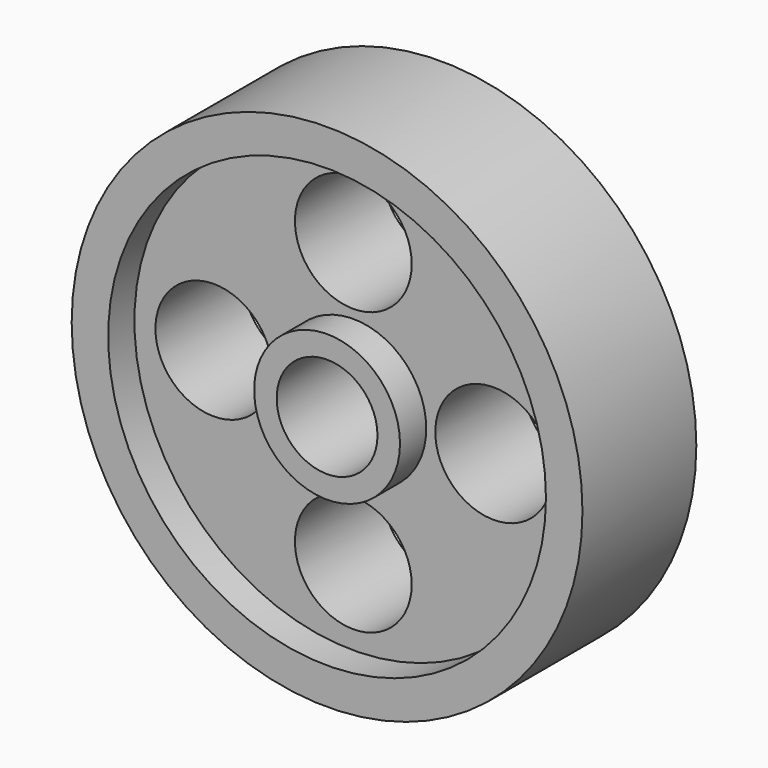
from build123d import *

# Parameters (mm, degrees)
F0_R     = 35.0012
F0_R_2   = 29.9974
F0_R_3   = 8.001
F0_R_4   = 9.9949
F1_DEPTH = 15.0114
F0_R_5   = 6.9083624949
F2_DEPTH = 19.5072


with BuildPart() as f1:
    # F0 (on Front) → F1 (new body)
    with BuildSketch(Plane.XZ):
        Circle(F0_R)
        Circle(F0_R_2, mode=Mode.SUBTRACT)
        Circle(F0_R_2)
        with Locations((0, -19.4546826296)):
            Circle(F0_R_3, mode=Mode.SUBTRACT)
        with Locations((-19.1206034859, 0)):
            Circle(F0_R_3, mode=Mode.SUBTRACT)
        Circle(F0_R_4, mode=Mode.SUBTRACT)
        with Locations((19.2373767495, 0)):
            Circle(F0_R_3, mode=Mode.SUBTRACT)
        with Locations((0, 19.2006870422)):
            Circle(F0_R_3, mode=Mode.SUBTRACT)
    extrude(amount=F1_DEPTH)

    # F0 (on Front) → F2 (join)
    with BuildSketch(Plane.XZ):
        Circle(F0_R)
        Circle(F0_R_2, mode=Mode.SUBTRACT)
        Circle(F0_R_4)
        Circle(F0_R_5, mode=Mode.SUBTRACT)
    extrude(amount=F2_DEPTH)


solid = f1.part
